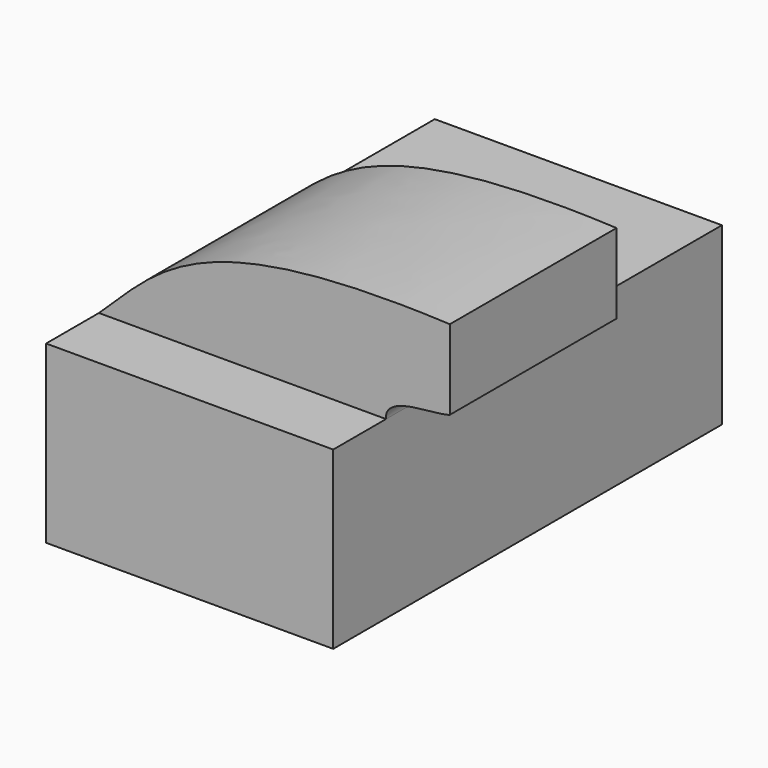
from build123d import *

# Parameters (mm, degrees)
F0_W      = 90
F0_H      = 55
F1_DEPTH  = 86
F2_DEPTH  = 12.5
F2_FACE_W = 90
F2_FACE_H = 55
F3_DEPTH  = 53.8
F4_DEPTH  = 65.3


with BuildPart() as f1:
    # F0 (on Front) → F1 (new body)
    with BuildSketch(Plane.XZ):
        with Locations((1.08182, -2.918677)):
            Rectangle(F0_W, F0_H)
    extrude(amount=F1_DEPTH)

    # F0 (on Front) → F2 (join, symmetric)
    with BuildSketch(Plane.XZ):
        with Locations((1.08182, -2.918677)):
            Rectangle(F0_W, F0_H)
    extrude(amount=F2_DEPTH, both=True)

    # F2_face (on face) → F3 (join)
    with BuildSketch(Plane(origin=(1.08182, 12.5, -2.918677), x_dir=(1, 0, 0), z_dir=(0, 1, 0))):
        Rectangle(F2_FACE_W, F2_FACE_H)
    extrude(amount=F3_DEPTH)

    # F0 (on Front) → F4 (join)
    with BuildSketch(Plane.XZ):
        with BuildLine():
            add(Edge.make_bspline(
                [(-43.91818, 24.581323), (-25.125932, 42.331356), (-13.193247, 60.789681), (66.08182, 57.259896)],
                knots=[0, 0, 0, 0, 114.751423, 114.751423, 114.751423, 114.751423], degree=3))
            Line((-43.91818, 24.581323), (46.08182, 24.581323))
            add(Edge.make_bspline(
                [(46.08182, 24.581323), (45.400707, 31.935), (61.706819, 30.563467), (66.08182, 32.259896)],
                knots=[0, 0, 0, 0, 21.423363, 21.423363, 21.423363, 21.423363], degree=3))
            Line((66.08182, 32.259896), (66.08182, 57.259896))
        make_face()
    extrude(amount=F4_DEPTH)


solid = f1.part
